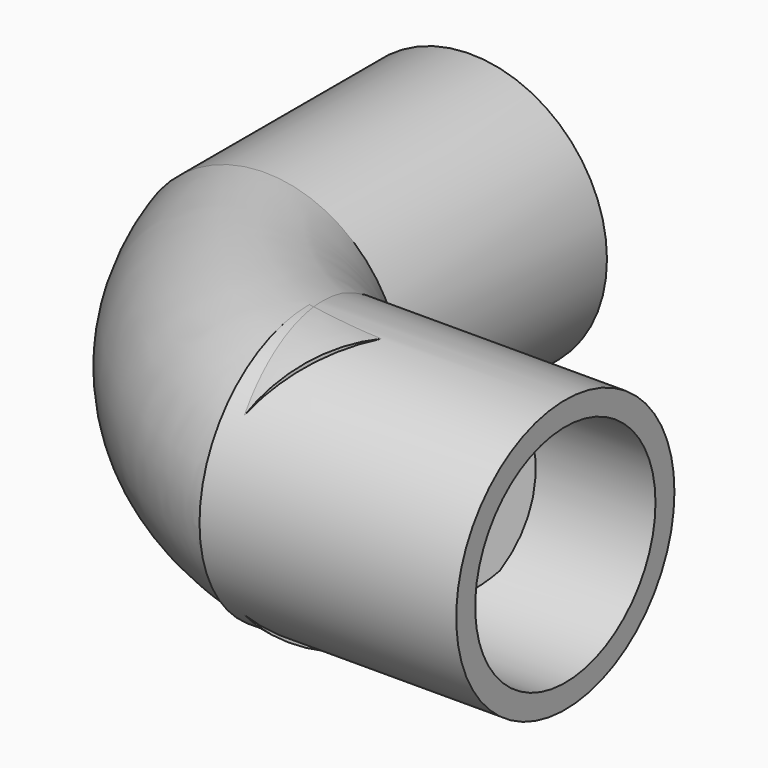
from build123d import *

# Parameters (mm, degrees)
F0_R     = 13.49375
F1_DEPTH = 25.4
F2_R     = 13.49375
F3_DEPTH = 25.4
F5_R     = 11.1506
F6_DEPTH = 46.736
F7_R     = 11.1506
F8_DEPTH = 50.8
F4_R     = 13.49375


with BuildPart() as f1:
    # F0 (on Right) → F1 (new body)
    with BuildSketch(Plane.YZ):
        with Locations((-15.2131393552, 0)):
            Circle(F0_R)
    extrude(amount=F1_DEPTH)

    # F5 (on face) → F6 (cut)
    with BuildSketch(Plane.YZ.offset(25.4)):
        with Locations((-15.2131393552, 0)):
            Circle(F5_R)
    extrude(amount=-F6_DEPTH, mode=Mode.SUBTRACT)



with BuildPart() as f3:
    # F2 (on Front) → F3 (new body)
    with BuildSketch(Plane.XZ):
        with Locations((-16.4639353752, 0)):
            Circle(F2_R)
    extrude(amount=-F3_DEPTH)

    # F7 (on face) → F8 (cut)
    with BuildSketch(Plane(origin=(0, 25.4, 0), x_dir=(-1, 0, 0), z_dir=(0, 1, 0))):
        with Locations((16.4639353752, 0)):
            Circle(F7_R)
    extrude(amount=-F8_DEPTH, mode=Mode.SUBTRACT)


with BuildPart() as f1_1:
    add(f1.part)

    add(f3.part)  # F10 merges F3
    # F10: sweep along a path in F9
    with BuildLine(Plane.XY) as f10_path:
        ThreePointArc((-30.3589254618, 0), (-18.8559760564, -18.1880432135), (0, -28.5598766059))
    # F4 (on face) → F10 (sweep)
    with BuildSketch(Plane.XZ):
        with Locations((-16.4639353752, 0)):
            Circle(F4_R)
    sweep(path=f10_path.line)


solid = f1_1.part
